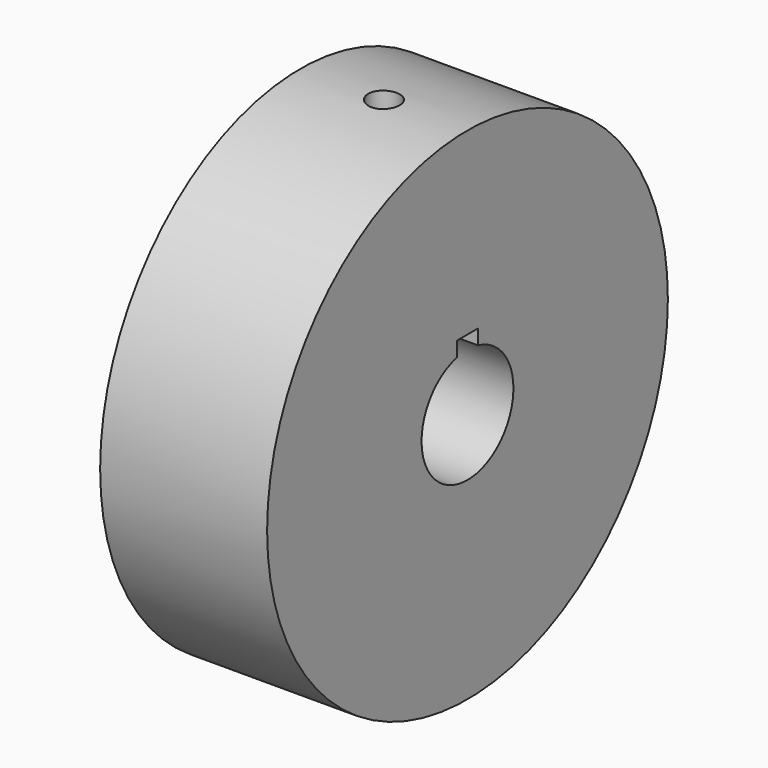
from build123d import *

# Parameters (mm, degrees)
F0_R           = 76.2
F1_DEPTH       = 25.4
F4_D           = 6.5278
F4_DEPTH       = 76.2
F4_CBORE_D     = 9.525
F4_CBORE_DEPTH = 25.4


with BuildPart() as f1:
    # F0 (on Right) → F1 (new body, symmetric)
    with BuildSketch(Plane.YZ):
        Circle(F0_R)
        with BuildLine():
            ThreePointArc((3.9624, 17.007007), (0, -17.4625), (-3.9624, 17.007007))
            Line((-3.9624, 17.007007), (-3.9624, 21.5265))
            Line((-3.9624, 21.5265), (3.9624, 21.5265))
            Line((3.9624, 21.5265), (3.9624, 17.007007))
        make_face(mode=Mode.SUBTRACT)
    extrude(amount=F1_DEPTH, both=True)

    # F4
    with Locations(Plane.XY.offset(76.2)):
        with Locations((0, 0)):
            CounterBoreHole(F4_D / 2, F4_CBORE_D / 2, F4_CBORE_DEPTH, depth=F4_DEPTH)


solid = f1.part
